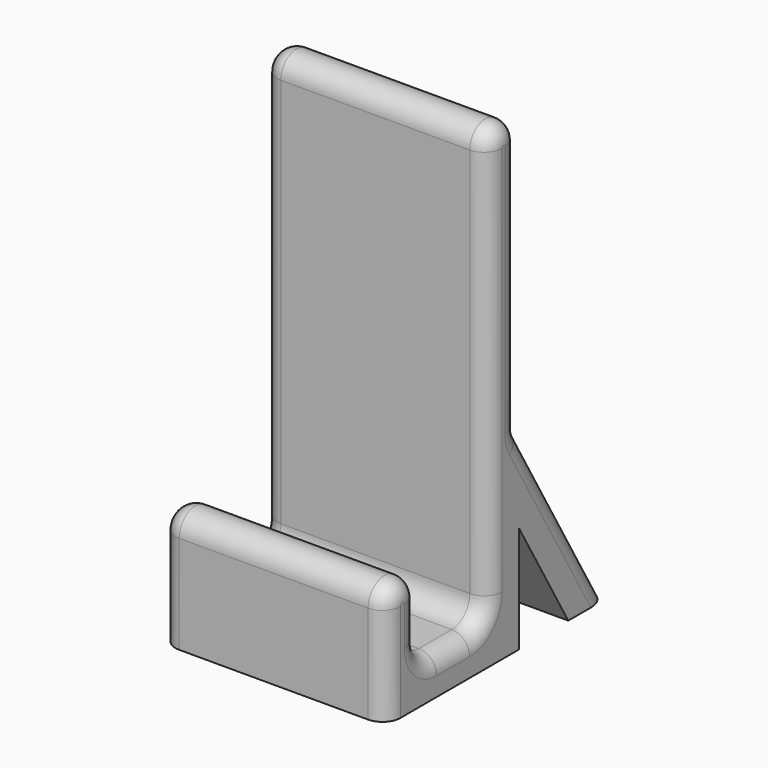
from build123d import *

# Parameters (mm, degrees)
F1_DEPTH = 31.75
F2_R     = 5.08


with BuildPart() as f1:
    # F0 (on Right) → F1 (new body, symmetric)
    with BuildSketch(Plane.YZ):
        with BuildLine():
            Line((0, 1.7055514147), (0, 73.0250034345))
            ThreePointArc((0, 73.0250034345), (-5.5520331692, 78.5770366037), (-11.1040663383, 73.0250034345))
            Line((-11.1040663383, 73.0250034345), (-11.1040663383, -37.2341068615))
            ThreePointArc((-11.1040663383, -37.2341068615), (-12.9639382553, -41.7242348678), (-17.4540662616, -43.5841067848))
            Line((-17.4540662616, -43.5841067848), (-29.0945176708, -43.5841067848))
            ThreePointArc((-29.0945176708, -43.5841067848), (-33.5846456771, -41.7242348678), (-35.4445175941, -37.2341068615))
            Line((-35.4445175941, -37.2341068615), (-35.4445175941, -26.2659148792))
            ThreePointArc((-35.4445175941, -26.2659148792), (-41.217258797, -20.4931736762), (-46.99, -26.2659148792))
            Line((-46.99, -26.2659148792), (-46.99, -53.9749965655))
            Line((-46.99, -53.9749965655), (0, -53.9749965655))
            Line((0, -53.9749965655), (0, -23.9568247386))
            Line((0, -23.9568247386), (17.3167846922, -53.867632915))
            Line((17.3167846922, -53.867632915), (31.1865261403, -53.867632915))
            Line((31.1865261403, -53.867632915), (0.8545431574, -1.4760290039))
            ThreePointArc((0.8545431574, -1.4760290039), (0.2173557518, 0.0583797503), (0, 1.7055514147))
        make_face()
    extrude(amount=F1_DEPTH, both=True)

    # F2
    f2_edges = [f1.edges().sort_by_distance(p)[0] for p in [
        (31.75, -11.104066, 17.895448),
        (-31.75, -11.104066, 17.895448),
    ]]
    fillet(f2_edges, radius=F2_R)


solid = f1.part
